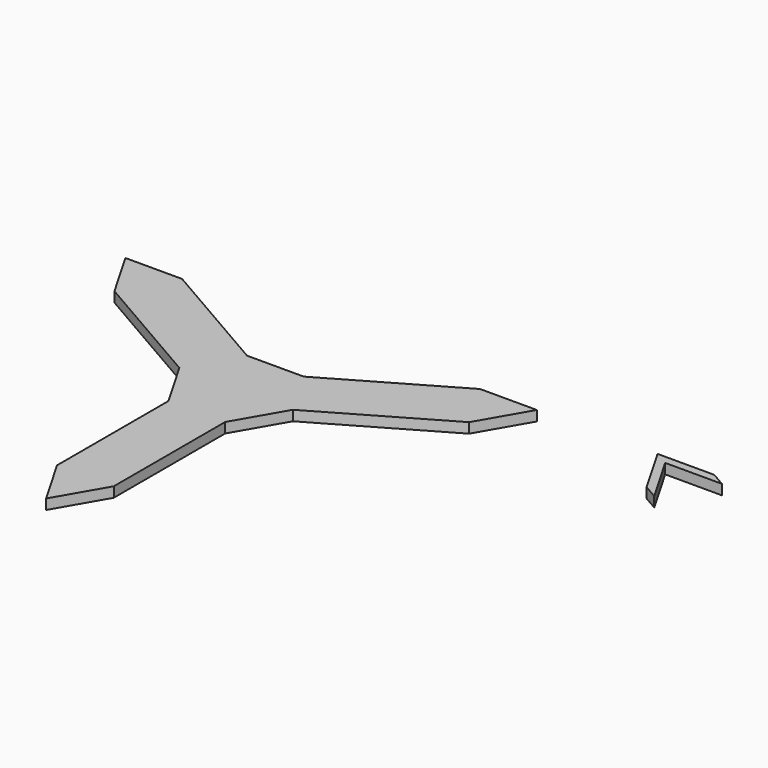
from build123d import *

# Parameters (mm, degrees)
F1_DEPTH = 18.161


with BuildPart() as f1:
    # F0 (on Top) → F1 (new body)
    with BuildSketch(Plane.XY):
        Polygon((-101.6, 0), (-50.8, 87.988181), (-266.7, 212.638104), (-368.3, 212.638104), (-317.5, 124.649923), align=None)
        Polygon((50.8, 87.988181), (-50.8, 87.988181), (-101.6, 0), (-50.8, -87.988181), (50.8, -87.988181), (101.6, 0), align=None)
        Polygon((266.7, 212.638104), (50.8, 87.988181), (101.6, 0), (317.5, 124.649923), (368.3, 212.638104), align=None)
        Polygon((50.8, -87.988181), (-50.8, -87.988181), (-50.8, -337.288027), (0, -425.276208), (50.8, -337.288027), align=None)
        Polygon((583.162865, 214.296697), (633.962865, 126.308516), (659.362865, 111.643819), (608.562865, 199.632), (710.162865, 199.632), (684.762865, 214.296697), align=None)
    extrude(amount=F1_DEPTH)


solid = f1.part
